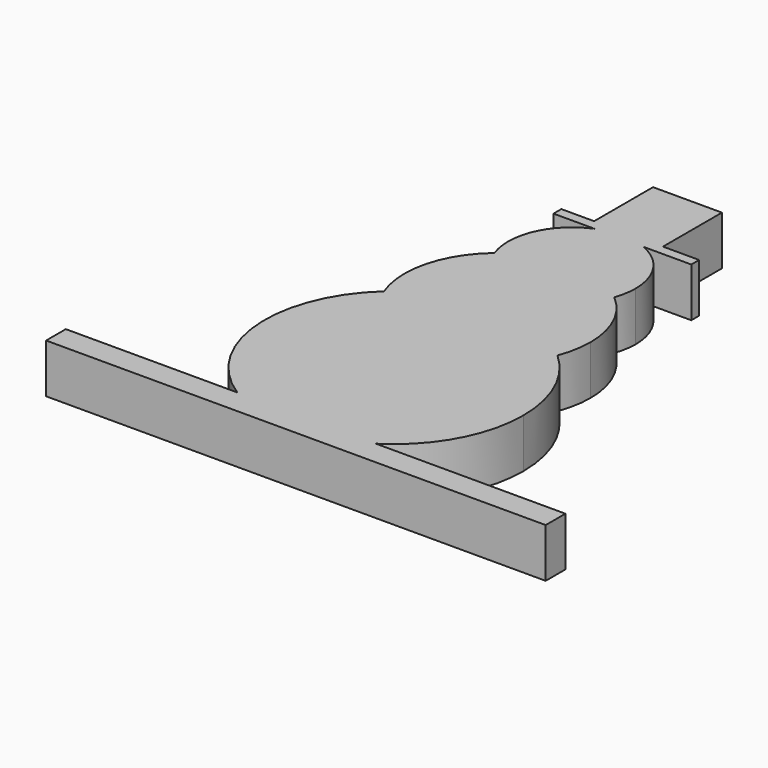
from build123d import *

# Parameters (mm, degrees)
F0_W     = 9.3442350626
F0_H     = 19.05
F0_W_2   = 8.4682106972
F1_DEPTH = 12.7


with BuildPart() as f1:
    # F0 (on Top) → F1 (new body)
    with BuildSketch(Plane.XY):
        with Locations((4.6721175313, 43.6261597422)):
            Rectangle(F0_W, F0_H)
        with Locations((-4.2341053486, 43.6261597422)):
            Rectangle(F0_W_2, F0_H)
        with BuildLine():
            Line((-16.9364213943, 31.5611597422), (-6.291250811, 31.5611597422))
            ThreePointArc((-6.291250811, 31.5611597422), (-3.2068706089, 32.4937729406), (0, 32.8086530862))
            Line((0, 32.8086530862), (0, 34.1011597422))
            Line((0, 34.1011597422), (-8.4682106972, 34.1011597422))
            Line((-8.4682106972, 34.1011597422), (-16.9364213943, 34.1011597422))
            Line((-16.9364213943, 34.1011597422), (-16.9364213943, 31.5611597422))
        make_face()
        with BuildLine():
            Line((0, 34.1011597422), (0, 32.8086530862))
            ThreePointArc((0, 32.8086530862), (3.2068706089, 32.4937729406), (6.291250811, 31.5611597422))
            Line((6.291250811, 31.5611597422), (18.6884663999, 31.5611597422))
            Line((18.6884663999, 31.5611597422), (18.6884663999, 34.1011597422))
            Line((18.6884663999, 34.1011597422), (9.3442350626, 34.1011597422))
            Line((9.3442350626, 34.1011597422), (0, 34.1011597422))
        make_face()
        with BuildLine():
            ThreePointArc((-6.291250811, 31.5611597422), (-15.090040572, 22.9640591319), (-15.4883746602, 10.6689312302))
            ThreePointArc((-15.4883746602, 10.6689312302), (0, 16.3211597422), (15.4883746602, 10.6689312302))
            ThreePointArc((15.4883746602, 10.6689312302), (16.2357924181, 13.4512326832), (16.4874933439, 16.3211597422))
            ThreePointArc((16.4874933439, 16.3211597422), (13.703364416, 25.4893242504), (6.291250811, 31.5611597422))
            Line((6.291250811, 31.5611597422), (0, 31.5611597422))
            Line((0, 31.5611597422), (-6.291250811, 31.5611597422))
        make_face()
        with BuildLine():
            ThreePointArc((-22.4394999049, -16.3700398839), (0, -7.7257658365), (22.4394999049, -16.3700398839))
            ThreePointArc((22.4394999049, -16.3700398839), (23.6416540668, -12.1219940808), (24.0469255787, -7.7257658365))
            ThreePointArc((24.0469255787, -7.7257658365), (21.8025505684, 2.4183663837), (15.4883746602, 10.6689312302))
            ThreePointArc((15.4883746602, 10.6689312302), (0, -0.1663336017), (-15.4883746602, 10.6689312302))
            ThreePointArc((-15.4883746602, 10.6689312302), (-23.2896416242, -1.7385108055), (-22.4394999049, -16.3700398839))
        make_face()
        with BuildLine():
            ThreePointArc((17.9249304532, -69.4115906954), (29.3109138189, -57.2848201084), (33.4472638545, -41.173029691))
            ThreePointArc((33.4472638545, -41.173029691), (30.5717135064, -27.605060328), (22.4394999049, -16.3700398839))
            ThreePointArc((22.4394999049, -16.3700398839), (0, -31.7726914152), (-22.4394999049, -16.3700398839))
            ThreePointArc((-22.4394999049, -16.3700398839), (-33.3267660846, -44.0095983393), (-17.9249304532, -69.4115906954))
            Line((-17.9249304532, -69.4115906954), (17.9249304532, -69.4115906954))
        make_face()
        with BuildLine():
            ThreePointArc((-22.4394999049, -16.3700398839), (0, -31.7726914152), (22.4394999049, -16.3700398839))
            ThreePointArc((22.4394999049, -16.3700398839), (0, -7.7257658365), (-22.4394999049, -16.3700398839))
        make_face()
        with BuildLine():
            ThreePointArc((15.4883746602, 10.6689312302), (0, 16.3211597422), (-15.4883746602, 10.6689312302))
            ThreePointArc((-15.4883746602, 10.6689312302), (0, -0.1663336017), (15.4883746602, 10.6689312302))
        make_face()
        with BuildLine():
            ThreePointArc((6.291250811, 31.5611597422), (3.2068706089, 32.4937729406), (0, 32.8086530862))
            Line((0, 32.8086530862), (0, 31.5611597422))
            Line((0, 31.5611597422), (6.291250811, 31.5611597422))
        make_face()
        with BuildLine():
            ThreePointArc((0, 32.8086530862), (-3.2068706089, 32.4937729406), (-6.291250811, 31.5611597422))
            Line((-6.291250811, 31.5611597422), (0, 31.5611597422))
            Line((0, 31.5611597422), (0, 32.8086530862))
        make_face()
        with BuildLine():
            Line((66.9182538986, -69.4115906954), (17.9249304532, -69.4115906954))
            ThreePointArc((17.9249304532, -69.4115906954), (0, -74.6202935455), (-17.9249304532, -69.4115906954))
            Line((-17.9249304532, -69.4115906954), (-62.283821404, -69.4115906954))
            Line((-62.283821404, -69.4115906954), (-62.283821404, -75.7877975702))
            Line((-62.283821404, -75.7877975702), (66.9182538986, -75.7877975702))
            Line((66.9182538986, -75.7877975702), (66.9182538986, -69.4115906954))
        make_face()
        with BuildLine():
            ThreePointArc((-17.9249304532, -69.4115906954), (0, -74.6202935455), (17.9249304532, -69.4115906954))
            Line((17.9249304532, -69.4115906954), (-17.9249304532, -69.4115906954))
        make_face()
    extrude(amount=F1_DEPTH)


solid = f1.part
